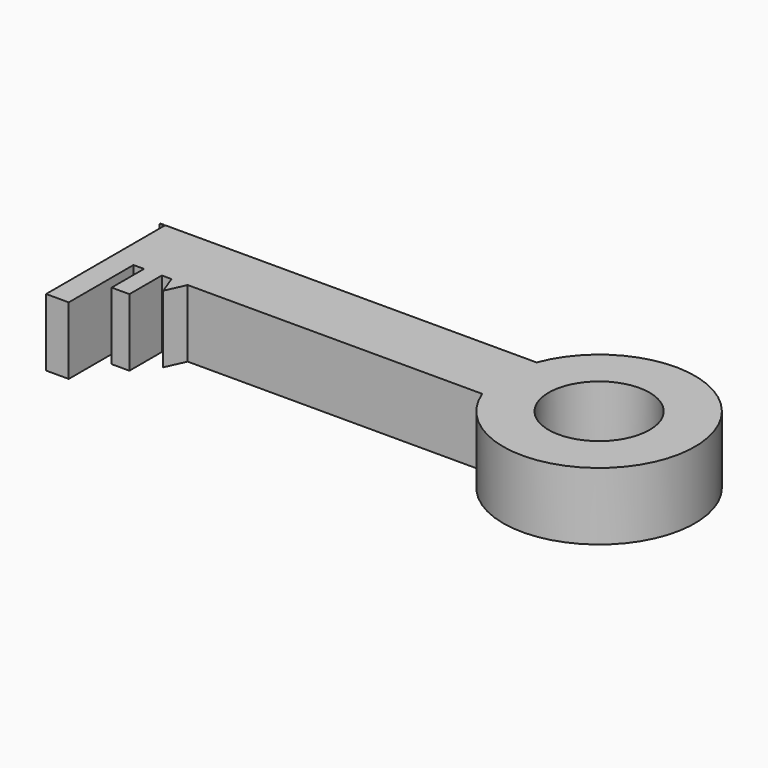
from build123d import *

# Parameters (mm, degrees)
F0_W     = 1.500003
F0_H     = 0.300001
F0_R     = 18.723898
F0_W_2   = 8.4
F0_H_2   = 30
F0_W_3   = 6.6
F0_H_3   = 15
F1_DEPTH = 25


with BuildPart() as f1:
    # F0 (on Top) → F1 (new body)
    with BuildSketch(Plane.XY):
        with Locations((-67.650002, 49.500001)):
            Rectangle(F0_W, F0_H)
        with BuildLine():
            Line((71.100004, 49.650002), (-66.600002, 49.650002))
            Line((-66.600002, 49.650002), (-66.600002, 24.45))
            Line((-66.600002, 24.45), (-58.200002, 24.45))
            Line((-58.200002, 24.45), (-54.300003, 24.45))
            Line((-54.300003, 24.45), (-47.700003, 24.45))
            Line((-47.700003, 24.45), (-44.100001, 24.45))
            Line((-44.100001, 24.45), (-38.1, 24.45))
            Line((-38.1, 24.45), (71.100004, 24.45))
            ThreePointArc((71.100004, 24.45), (139.906468, 37.050001), (71.100004, 49.650002))
        make_face()
        with Locations((104.349565, 37.050001)):
            Circle(F0_R, mode=Mode.SUBTRACT)
        with Locations((-62.400002, 9.45)):
            Rectangle(F0_W_2, F0_H_2)
        Polygon((-41.4, 17.250001), (-38.1, 24.45), (-44.100001, 24.45), align=None)
        with Locations((-51.000003, 16.95)):
            Rectangle(F0_W_3, F0_H_3)
    extrude(amount=F1_DEPTH)


solid = f1.part
